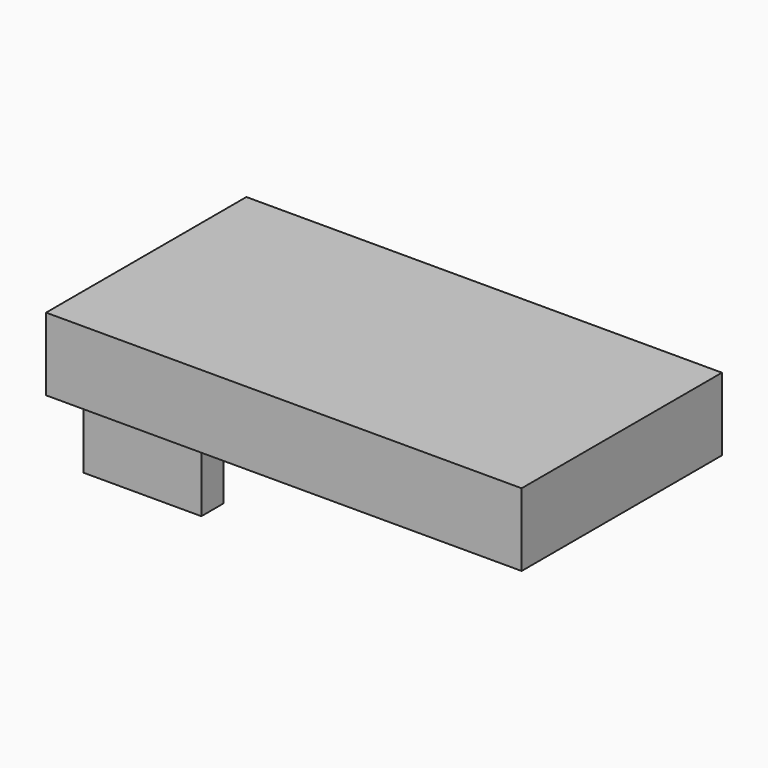
from build123d import *

# Parameters (mm, degrees)
F0_W     = 165.857748
F0_H     = 87.315909
F1_DEPTH = 25.4
F2_W     = 41.047699
F2_H     = 9.721819
F3_DEPTH = 25.4
F4_W     = 38.763791
F4_H     = 9.356778
F5_DEPTH = 25.4


with BuildPart() as f1:
    # F0 (on Top) → F1 (new body)
    with BuildSketch(Plane.XY):
        with Locations((-44.263117, -8.819088)):
            Rectangle(F0_W, F0_H)
    extrude(amount=F1_DEPTH)

    # F2 (on face) → F3 (join)
    with BuildSketch(Plane(origin=(0, 0, 0), x_dir=(1, 0, 0), z_dir=(0, 0, -1))):
        with Locations((-100.629154, 38.785094)):
            Rectangle(F2_W, F2_H)
    extrude(amount=F3_DEPTH)

    # F4 (on face) → F5 (join)
    with BuildSketch(Plane(origin=(0, 0, 0), x_dir=(1, 0, 0), z_dir=(0, 0, -1))):
        with Locations((-100.541174, -24.251241)):
            Rectangle(F4_W, F4_H)
    extrude(amount=F5_DEPTH)


solid = f1.part
